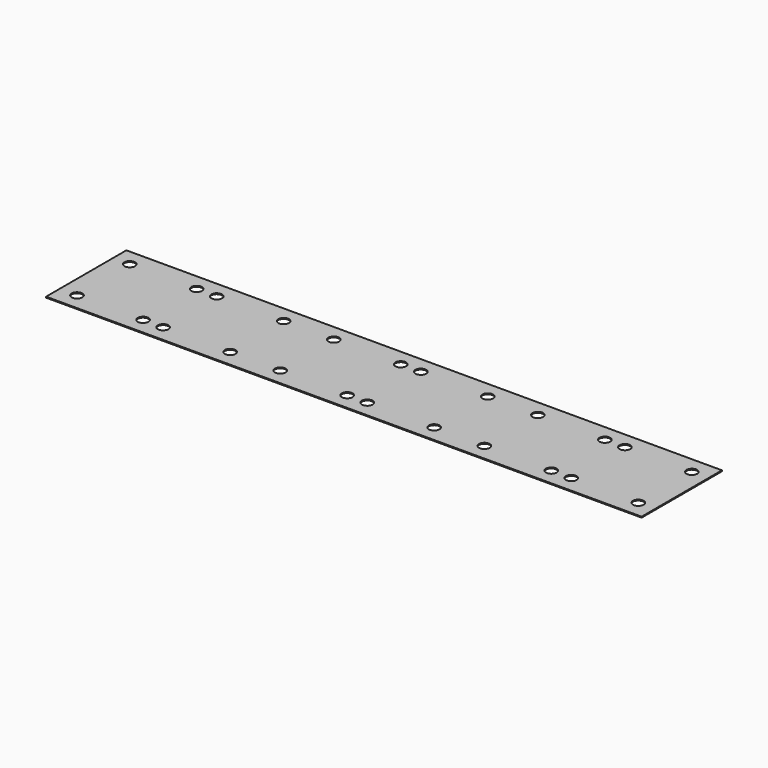
from build123d import *

# Parameters (mm, degrees)
F0_W     = 178
F0_H     = 30
F0_R     = 1.6
F1_DEPTH = 0.282222


with BuildPart() as f1:
    # F0 (on Top) → F1 (new body)
    with BuildSketch(Plane.XY):
        with Locations((-39.587713, 7.19178)):
            Rectangle(F0_W, F0_H)
        with Locations((-123.356734, -2.80822)):
            Circle(F0_R, mode=Mode.SUBTRACT)
        with Locations((-103.587713, -2.80822)):
            Circle(F0_R, mode=Mode.SUBTRACT)
        with Locations((-97.587713, -2.80822)):
            Circle(F0_R, mode=Mode.SUBTRACT)
        with Locations((-77.587713, -2.80822)):
            Circle(F0_R, mode=Mode.SUBTRACT)
        with Locations((-62.587713, -2.80822)):
            Circle(F0_R, mode=Mode.SUBTRACT)
        with Locations((-42.587713, -2.80822)):
            Circle(F0_R, mode=Mode.SUBTRACT)
        with Locations((-36.587713, -2.80822)):
            Circle(F0_R, mode=Mode.SUBTRACT)
        with Locations((-16.587713, -2.80822)):
            Circle(F0_R, mode=Mode.SUBTRACT)
        with Locations((-1.587713, -2.80822)):
            Circle(F0_R, mode=Mode.SUBTRACT)
        with Locations((18.412287, -2.80822)):
            Circle(F0_R, mode=Mode.SUBTRACT)
        with Locations((24.412287, -2.80822)):
            Circle(F0_R, mode=Mode.SUBTRACT)
        with Locations((44.412287, -2.80822)):
            Circle(F0_R, mode=Mode.SUBTRACT)
        with Locations((-123.587713, 17.19178)):
            Circle(F0_R, mode=Mode.SUBTRACT)
        with Locations((-103.587713, 17.19178)):
            Circle(F0_R, mode=Mode.SUBTRACT)
        with Locations((-97.587713, 17.19178)):
            Circle(F0_R, mode=Mode.SUBTRACT)
        with Locations((-77.587713, 17.19178)):
            Circle(F0_R, mode=Mode.SUBTRACT)
        with Locations((-62.587713, 17.19178)):
            Circle(F0_R, mode=Mode.SUBTRACT)
        with Locations((-42.587713, 17.19178)):
            Circle(F0_R, mode=Mode.SUBTRACT)
        with Locations((-36.587713, 17.19178)):
            Circle(F0_R, mode=Mode.SUBTRACT)
        with Locations((-16.587713, 17.19178)):
            Circle(F0_R, mode=Mode.SUBTRACT)
        with Locations((-1.587713, 17.19178)):
            Circle(F0_R, mode=Mode.SUBTRACT)
        with Locations((18.412287, 17.19178)):
            Circle(F0_R, mode=Mode.SUBTRACT)
        with Locations((24.412287, 17.19178)):
            Circle(F0_R, mode=Mode.SUBTRACT)
        with Locations((44.412287, 17.19178)):
            Circle(F0_R, mode=Mode.SUBTRACT)
    extrude(amount=F1_DEPTH)


solid = f1.part
